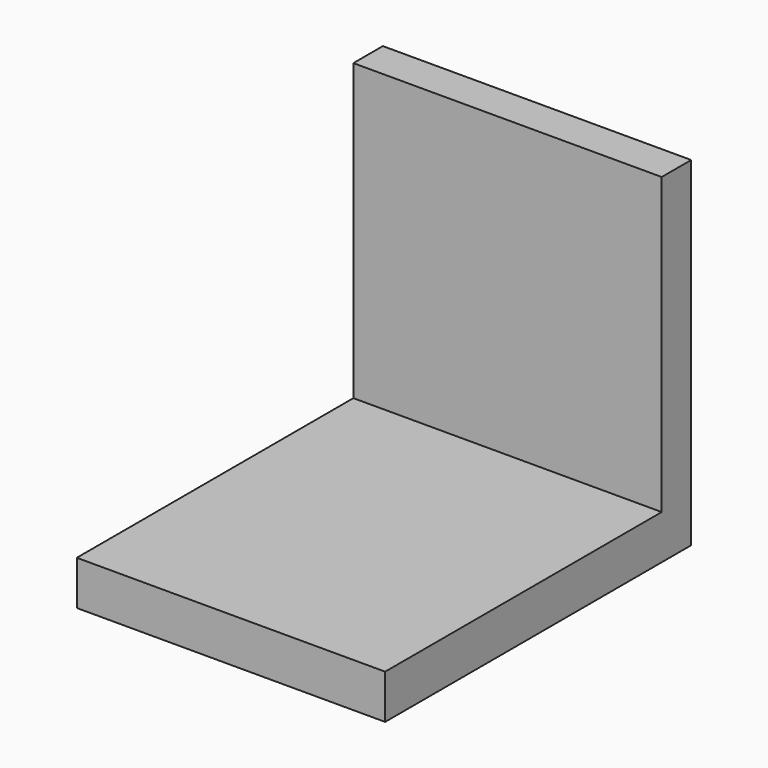
from build123d import *

# Parameters (mm, degrees)
F0_W     = 41.818184
F0_H     = 46
F1_DEPTH = 5
F2_W     = 41.818184
F2_H     = 46.880024
F3_DEPTH = 6


with BuildPart() as f1:
    # F0 (on Front) → F1 (new body)
    with BuildSketch(Plane.XZ):
        Rectangle(F0_W, F0_H)
    extrude(amount=F1_DEPTH)

    # F2 (on face) → F3 (join)
    with BuildSketch(Plane(origin=(0, 0, -23), x_dir=(1, 0, 0), z_dir=(0, 0, -1))):
        with Locations((0, 28.440012)):
            Rectangle(F2_W, F2_H)
    extrude(amount=-F3_DEPTH)


solid = f1.part
